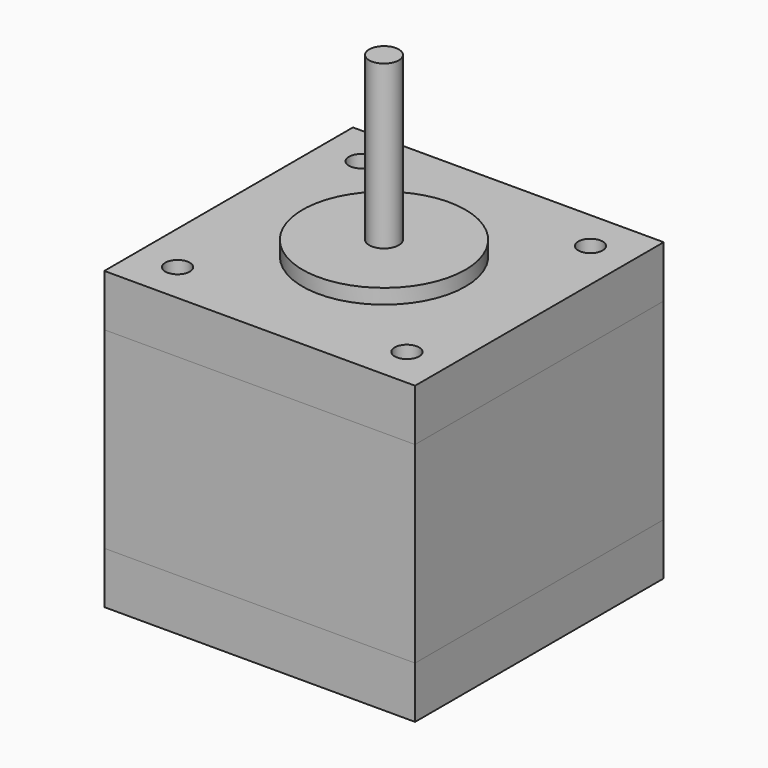
from build123d import *

# Parameters (mm, degrees)
F0_W     = 42
F0_H     = 42
F1_DEPTH = 7
F2_DEPTH = 26
F3_DEPTH = 7
F5_D     = 3.3
F5_2_D   = 3.3
F5_3_D   = 3.3
F6_R     = 11
F7_DEPTH = 2
F8_R     = 2
F9_DEPTH = 22


with BuildPart() as f1:
    # F0 (on Top) → F1 (new body)
    with BuildSketch(Plane.XY):
        Rectangle(F0_W, F0_H)
    extrude(amount=F1_DEPTH)


with BuildPart() as f2:
    # F2 (new): a face of the model
    f2_faces = [f1.part.faces().sort_by_distance(p)[0] for p in [
        (0, 0, 7),
    ]]
    extrude(f2_faces, amount=F2_DEPTH)


with BuildPart() as f3:
    # F3 (new): a face of the model
    f3_faces = [f2.part.faces().sort_by_distance(p)[0] for p in [
        (0, 0, 33),
    ]]
    extrude(f3_faces, amount=F3_DEPTH)

    # F5#3 (through all)
    with Locations(Plane.XY.offset(40)):
        with Locations((-15.5, 15.5), (15.5, 15.5), (-15.5, -15.5), (15.5, -15.5)):
            Hole(F5_3_D / 2)

    # F6 (on face) → F7 (join)
    with BuildSketch(Plane.XY.offset(40)):
        Circle(F6_R)
    extrude(amount=F7_DEPTH)

    # F8 (on face) → F9 (join)
    with BuildSketch(Plane.XY.offset(42)):
        Circle(F8_R)
    extrude(amount=F9_DEPTH)


with BuildPart() as f1_1:
    add(f1.part)

    # F5 (through all)
    with Locations(Plane.XY.offset(40)):
        with Locations((-15.5, 15.5), (15.5, 15.5), (-15.5, -15.5), (15.5, -15.5)):
            Hole(F5_D / 2)


with BuildPart() as f2_1:
    add(f2.part)

    # F5#2 (through all)
    with Locations(Plane.XY.offset(40)):
        with Locations((-15.5, 15.5), (15.5, 15.5), (-15.5, -15.5), (15.5, -15.5)):
            Hole(F5_2_D / 2)


solid = Compound([f3.part, f1_1.part, f2_1.part])
